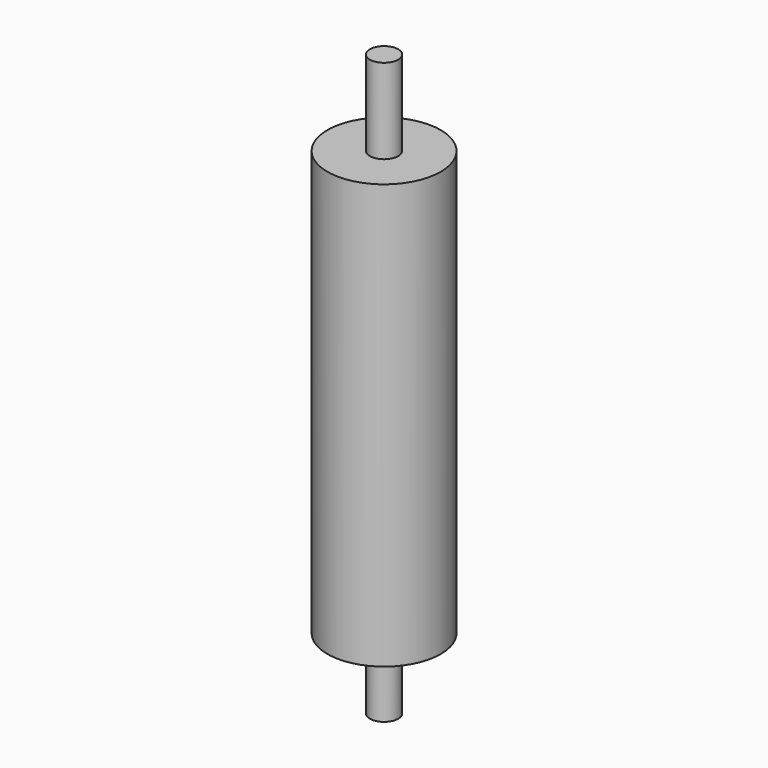
from build123d import *

# Parameters (mm, degrees)
F0_R          = 20
F0_R_2        = 5
F1_DEPTH      = 150
F2_DEPTH      = 180
F2_DEPTH_BACK = 25


with BuildPart() as f1:
    # F0 (on Top) → F1 (new body)
    with BuildSketch(Plane.XY):
        Circle(F0_R)
        Circle(F0_R_2, mode=Mode.SUBTRACT)
    extrude(amount=F1_DEPTH)

    # F0 (on Top) → F2 (join, two sides)
    with BuildSketch(Plane.XY) as f2_sk:
        Circle(F0_R_2)
    extrude(amount=F2_DEPTH)
    extrude(f2_sk.sketch, amount=-F2_DEPTH_BACK)


solid = f1.part
